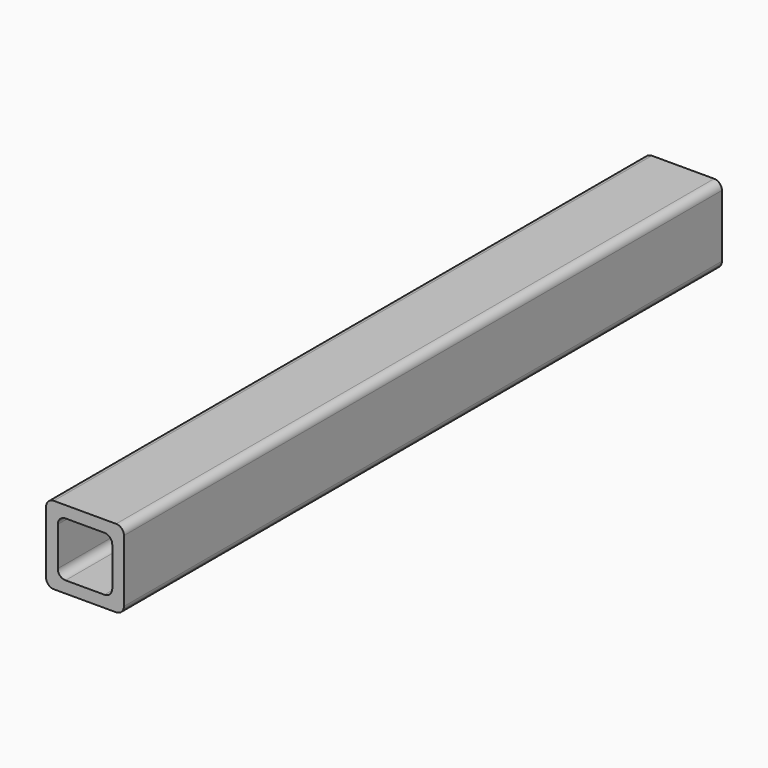
from build123d import *

# Parameters (mm, degrees)
F1_DEPTH = 304.8


with BuildPart() as f1:
    # F0 (on Front) → F1 (new body)
    with BuildSketch(Plane.XZ):
        with BuildLine():
            ThreePointArc((15.875, 12.7), (14.945064, 14.945064), (12.7, 15.875))
            Line((12.7, 15.875), (-12.7, 15.875))
            ThreePointArc((-12.7, 15.875), (-14.945064, 14.945064), (-15.875, 12.7))
            Line((-15.875, 12.7), (-15.875, -12.7))
            ThreePointArc((-15.875, -12.7), (-14.945064, -14.945064), (-12.7, -15.875))
            Line((-12.7, -15.875), (12.7, -15.875))
            ThreePointArc((12.7, -15.875), (14.945064, -14.945064), (15.875, -12.7))
            Line((15.875, -12.7), (15.875, 12.7))
        make_face()
        with BuildLine():
            Line((-7.9375, 11.1125), (7.9375, 11.1125))
            ThreePointArc((7.9375, 11.1125), (10.182564, 10.182564), (11.1125, 7.9375))
            Line((11.1125, 7.9375), (11.1125, -7.9375))
            ThreePointArc((11.1125, -7.9375), (10.182564, -10.182564), (7.9375, -11.1125))
            Line((7.9375, -11.1125), (-7.9375, -11.1125))
            ThreePointArc((-7.9375, -11.1125), (-10.182564, -10.182564), (-11.1125, -7.9375))
            Line((-11.1125, -7.9375), (-11.1125, 7.9375))
            ThreePointArc((-11.1125, 7.9375), (-10.182564, 10.182564), (-7.9375, 11.1125))
        make_face(mode=Mode.SUBTRACT)
    extrude(amount=-F1_DEPTH)


solid = f1.part
